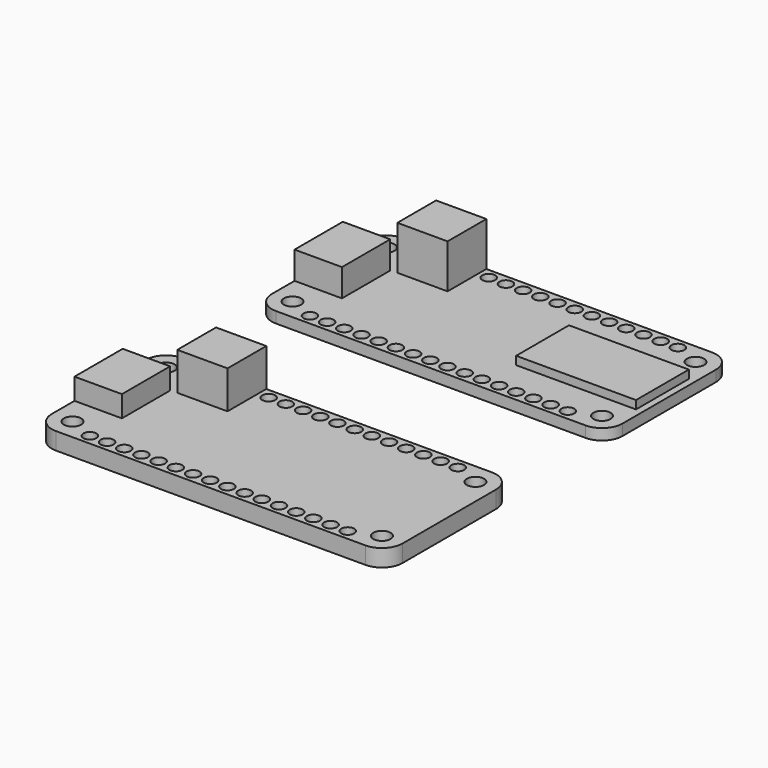
from build123d import *

# Parameters (mm, degrees)
F0_R     = 0.9418298461
F0_R_2   = 1.25
F1_DEPTH = 1.6
F2_W     = 6.8945484459
F2_H     = 8.7640117854
F3_DEPTH = 4
F2_W_2   = 7.3059303686
F2_H_2   = 7.0441975035
F4_DEPTH = 6.4
F6_W     = 17.4289741553
F6_H     = 9.6015930176
F7_DEPTH = 1.2
F8_DEPTH = 2.5


with BuildPart() as f1:
    # F0 (on Top) → F1 (new body)
    with BuildSketch(Plane.XY):
        with BuildLine():
            Line((22.5, 11.5), (-22.5, 11.5))
            ThreePointArc((-22.5, 11.5), (-24.6213203436, 10.6213203436), (-25.5, 8.5))
            Line((-25.5, 8.5), (-25.5, -8.5))
            ThreePointArc((-25.5, -8.5), (-24.6213203436, -10.6213203436), (-22.5, -11.5))
            Line((-22.5, -11.5), (22.5, -11.5))
            ThreePointArc((22.5, -11.5), (24.6213203436, -10.6213203436), (25.5, -8.5))
            Line((25.5, -8.5), (25.5, 8.5))
            ThreePointArc((25.5, 8.5), (24.6213203436, 10.6213203436), (22.5, 11.5))
        make_face()
        with Locations((-18.7665838748, -10)):
            Circle(F0_R, mode=Mode.SUBTRACT)
        with Locations((-16.2665838748, -10)):
            Circle(F0_R, mode=Mode.SUBTRACT)
        with Locations((-13.7665838748, -10)):
            Circle(F0_R, mode=Mode.SUBTRACT)
        with Locations((-22.5, -8.5)):
            Circle(F0_R_2, mode=Mode.SUBTRACT)
        with Locations((-11.2665838748, -10)):
            Circle(F0_R, mode=Mode.SUBTRACT)
        with Locations((-8.7665838748, -10)):
            Circle(F0_R, mode=Mode.SUBTRACT)
        with Locations((-6.2665838748, -10)):
            Circle(F0_R, mode=Mode.SUBTRACT)
        with Locations((-3.7665838748, -10)):
            Circle(F0_R, mode=Mode.SUBTRACT)
        with Locations((-1.2665838748, -10)):
            Circle(F0_R, mode=Mode.SUBTRACT)
        with Locations((1.2334161252, -10)):
            Circle(F0_R, mode=Mode.SUBTRACT)
        with Locations((3.7334161252, -10)):
            Circle(F0_R, mode=Mode.SUBTRACT)
        with Locations((6.2334161252, -10)):
            Circle(F0_R, mode=Mode.SUBTRACT)
        with Locations((8.7334161252, -10)):
            Circle(F0_R, mode=Mode.SUBTRACT)
        with Locations((11.2334161252, -10)):
            Circle(F0_R, mode=Mode.SUBTRACT)
        with Locations((13.7334161252, -10)):
            Circle(F0_R, mode=Mode.SUBTRACT)
        with Locations((16.2334161252, -10)):
            Circle(F0_R, mode=Mode.SUBTRACT)
        with Locations((18.7334161252, -10)):
            Circle(F0_R, mode=Mode.SUBTRACT)
        with Locations((22.5, -8.5)):
            Circle(F0_R_2, mode=Mode.SUBTRACT)
        with Locations((-22.5, 8.5)):
            Circle(F0_R_2, mode=Mode.SUBTRACT)
        with Locations((-8.7665838748, 10)):
            Circle(F0_R, mode=Mode.SUBTRACT)
        with Locations((-6.2665838748, 10)):
            Circle(F0_R, mode=Mode.SUBTRACT)
        with Locations((-3.7665838748, 10)):
            Circle(F0_R, mode=Mode.SUBTRACT)
        with Locations((-1.2665838748, 10)):
            Circle(F0_R, mode=Mode.SUBTRACT)
        with Locations((1.2334161252, 10)):
            Circle(F0_R, mode=Mode.SUBTRACT)
        with Locations((3.7334161252, 10)):
            Circle(F0_R, mode=Mode.SUBTRACT)
        with Locations((6.2334161252, 10)):
            Circle(F0_R, mode=Mode.SUBTRACT)
        with Locations((8.7334161252, 10)):
            Circle(F0_R, mode=Mode.SUBTRACT)
        with Locations((11.2334161252, 10)):
            Circle(F0_R, mode=Mode.SUBTRACT)
        with Locations((22.5, 8.5)):
            Circle(F0_R_2, mode=Mode.SUBTRACT)
        with Locations((13.7334161252, 10)):
            Circle(F0_R, mode=Mode.SUBTRACT)
        with Locations((16.2334161252, 10)):
            Circle(F0_R, mode=Mode.SUBTRACT)
        with Locations((18.7334161252, 10)):
            Circle(F0_R, mode=Mode.SUBTRACT)
    extrude(amount=F1_DEPTH)

    # F2 (on face) → F3 (join)
    with BuildSketch(Plane.XY.offset(1.6)):
        with Locations((-22.052725777, 0)):
            Rectangle(F2_W, F2_H)
    extrude(amount=F3_DEPTH)

    # F2 (on face) → F4 (join)
    with BuildSketch(Plane.XY.offset(1.6)):
        with Locations((-13.9719215222, 7.9779012483)):
            Rectangle(F2_W_2, F2_H_2)
    extrude(amount=F4_DEPTH)


with BuildPart() as f5_1:
    # F5: copy of F1
    add(f1.part.moved(Location((0, 40, 0))))

    # F6 (on face) → F7 (join)
    with BuildSketch(Plane.XY.offset(1.6)):
        with Locations((15.8113155048, 39.9478189647)):
            Rectangle(F6_W, F6_H)
    extrude(amount=F7_DEPTH)


with BuildPart() as f8:
    # F0 (on Top) → F8 (new body)
    with BuildSketch(Plane.XY):
        with BuildLine():
            Line((22.5, 11.5), (-22.5, 11.5))
            ThreePointArc((-22.5, 11.5), (-24.6213203436, 10.6213203436), (-25.5, 8.5))
            Line((-25.5, 8.5), (-25.5, -8.5))
            ThreePointArc((-25.5, -8.5), (-24.6213203436, -10.6213203436), (-22.5, -11.5))
            Line((-22.5, -11.5), (22.5, -11.5))
            ThreePointArc((22.5, -11.5), (24.6213203436, -10.6213203436), (25.5, -8.5))
            Line((25.5, -8.5), (25.5, 8.5))
            ThreePointArc((25.5, 8.5), (24.6213203436, 10.6213203436), (22.5, 11.5))
        make_face()
        with Locations((-18.7665838748, -10)):
            Circle(F0_R, mode=Mode.SUBTRACT)
        with Locations((-16.2665838748, -10)):
            Circle(F0_R, mode=Mode.SUBTRACT)
        with Locations((-13.7665838748, -10)):
            Circle(F0_R, mode=Mode.SUBTRACT)
        with Locations((-22.5, -8.5)):
            Circle(F0_R_2, mode=Mode.SUBTRACT)
        with Locations((-11.2665838748, -10)):
            Circle(F0_R, mode=Mode.SUBTRACT)
        with Locations((-8.7665838748, -10)):
            Circle(F0_R, mode=Mode.SUBTRACT)
        with Locations((-6.2665838748, -10)):
            Circle(F0_R, mode=Mode.SUBTRACT)
        with Locations((-3.7665838748, -10)):
            Circle(F0_R, mode=Mode.SUBTRACT)
        with Locations((-1.2665838748, -10)):
            Circle(F0_R, mode=Mode.SUBTRACT)
        with Locations((1.2334161252, -10)):
            Circle(F0_R, mode=Mode.SUBTRACT)
        with Locations((3.7334161252, -10)):
            Circle(F0_R, mode=Mode.SUBTRACT)
        with Locations((6.2334161252, -10)):
            Circle(F0_R, mode=Mode.SUBTRACT)
        with Locations((8.7334161252, -10)):
            Circle(F0_R, mode=Mode.SUBTRACT)
        with Locations((11.2334161252, -10)):
            Circle(F0_R, mode=Mode.SUBTRACT)
        with Locations((13.7334161252, -10)):
            Circle(F0_R, mode=Mode.SUBTRACT)
        with Locations((16.2334161252, -10)):
            Circle(F0_R, mode=Mode.SUBTRACT)
        with Locations((18.7334161252, -10)):
            Circle(F0_R, mode=Mode.SUBTRACT)
        with Locations((22.5, -8.5)):
            Circle(F0_R_2, mode=Mode.SUBTRACT)
        with Locations((-22.5, 8.5)):
            Circle(F0_R_2, mode=Mode.SUBTRACT)
        with Locations((-8.7665838748, 10)):
            Circle(F0_R, mode=Mode.SUBTRACT)
        with Locations((-6.2665838748, 10)):
            Circle(F0_R, mode=Mode.SUBTRACT)
        with Locations((-3.7665838748, 10)):
            Circle(F0_R, mode=Mode.SUBTRACT)
        with Locations((-1.2665838748, 10)):
            Circle(F0_R, mode=Mode.SUBTRACT)
        with Locations((1.2334161252, 10)):
            Circle(F0_R, mode=Mode.SUBTRACT)
        with Locations((3.7334161252, 10)):
            Circle(F0_R, mode=Mode.SUBTRACT)
        with Locations((6.2334161252, 10)):
            Circle(F0_R, mode=Mode.SUBTRACT)
        with Locations((8.7334161252, 10)):
            Circle(F0_R, mode=Mode.SUBTRACT)
        with Locations((11.2334161252, 10)):
            Circle(F0_R, mode=Mode.SUBTRACT)
        with Locations((22.5, 8.5)):
            Circle(F0_R_2, mode=Mode.SUBTRACT)
        with Locations((13.7334161252, 10)):
            Circle(F0_R, mode=Mode.SUBTRACT)
        with Locations((16.2334161252, 10)):
            Circle(F0_R, mode=Mode.SUBTRACT)
        with Locations((18.7334161252, 10)):
            Circle(F0_R, mode=Mode.SUBTRACT)
    extrude(amount=F8_DEPTH)


solid = Compound([f1.part, f5_1.part, f8.part])
